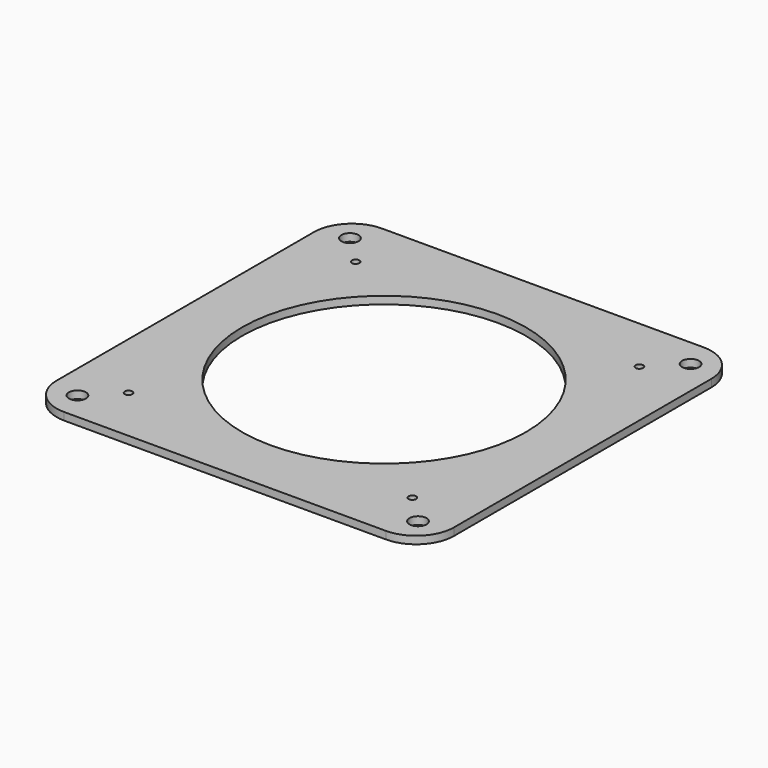
from build123d import *

# Parameters (mm, degrees)
F0_R     = 2.25
F0_R_2   = 1
F0_R_3   = 37.5
F1_DEPTH = 2


with BuildPart() as f1:
    # F0 (on Top) → F1 (new body)
    with BuildSketch(Plane.XY):
        with BuildLine():
            Line((42.5, 52.5), (-42.5, 52.5))
            ThreePointArc((-42.5, 52.5), (-49.571068, 49.571068), (-52.5, 42.5))
            Line((-52.5, 42.5), (-52.5, -42.5))
            ThreePointArc((-52.5, -42.5), (-49.571068, -49.571068), (-42.5, -52.5))
            Line((-42.5, -52.5), (42.5, -52.5))
            ThreePointArc((42.5, -52.5), (49.571068, -49.571068), (52.5, -42.5))
            Line((52.5, -42.5), (52.5, 42.5))
            ThreePointArc((52.5, 42.5), (49.571068, 49.571068), (42.5, 52.5))
        make_face()
        with Locations((-45, -45)):
            Circle(F0_R, mode=Mode.SUBTRACT)
        with Locations((-37.5, -37.5)):
            Circle(F0_R_2, mode=Mode.SUBTRACT)
        with Locations((45, -45)):
            Circle(F0_R, mode=Mode.SUBTRACT)
        with Locations((37.5, -37.5)):
            Circle(F0_R_2, mode=Mode.SUBTRACT)
        with Locations((-37.5, 37.5)):
            Circle(F0_R_2, mode=Mode.SUBTRACT)
        with Locations((-45, 45)):
            Circle(F0_R, mode=Mode.SUBTRACT)
        Circle(F0_R_3, mode=Mode.SUBTRACT)
        with Locations((37.5, 37.5)):
            Circle(F0_R_2, mode=Mode.SUBTRACT)
        with Locations((45, 45)):
            Circle(F0_R, mode=Mode.SUBTRACT)
    extrude(amount=F1_DEPTH)


solid = f1.part
